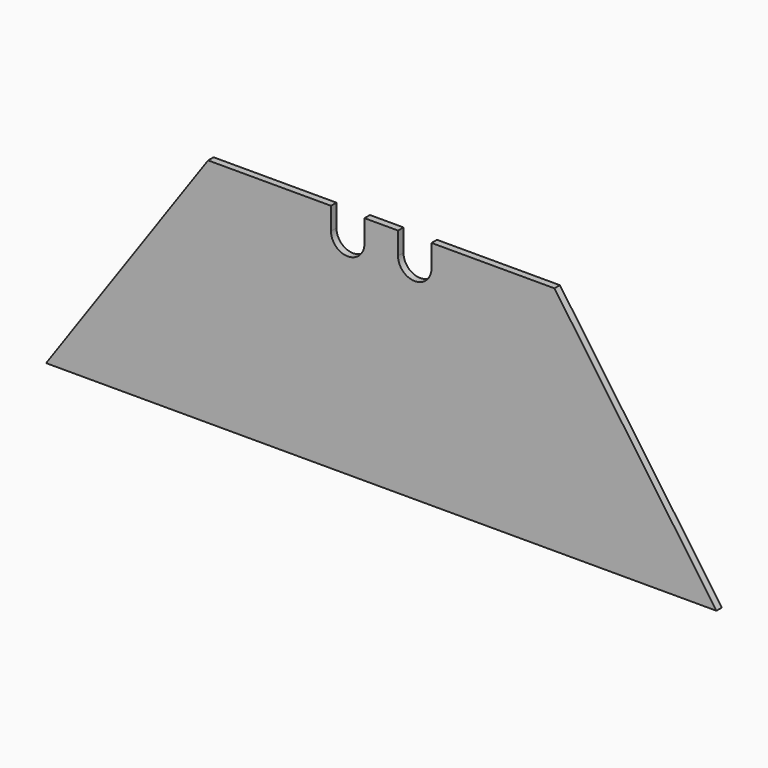
from build123d import *

# Parameters (mm, degrees)
F1_DEPTH = 0.61


with BuildPart() as f1:
    # F0 (on Front) → F1 (new body)
    with BuildSketch(Plane.XZ):
        with BuildLine():
            Line((-30, 0), (0, 0))
            Line((0, 0), (30.000002, 0))
            Line((30.000002, 0), (15.5, 20.689656))
            Line((15.5, 20.689656), (4.5, 20.689656))
            Line((4.5, 20.689656), (4.5, 18.689656))
            ThreePointArc((4.5, 18.689656), (3, 17.189656), (1.5, 18.689656))
            Line((1.5, 18.689656), (1.5, 20.689656))
            Line((1.5, 20.689656), (0, 20.689656))
            Line((0, 20.689656), (-1.5, 20.689656))
            Line((-1.5, 20.689656), (-1.5, 18.689656))
            ThreePointArc((-1.5, 18.689656), (-3, 17.189656), (-4.5, 18.689656))
            Line((-4.5, 18.689656), (-4.5, 20.689656))
            Line((-4.5, 20.689656), (-15.5, 20.689656))
            Line((-15.5, 20.689656), (-30, 0))
        make_face()
    extrude(amount=F1_DEPTH)


solid = f1.part
